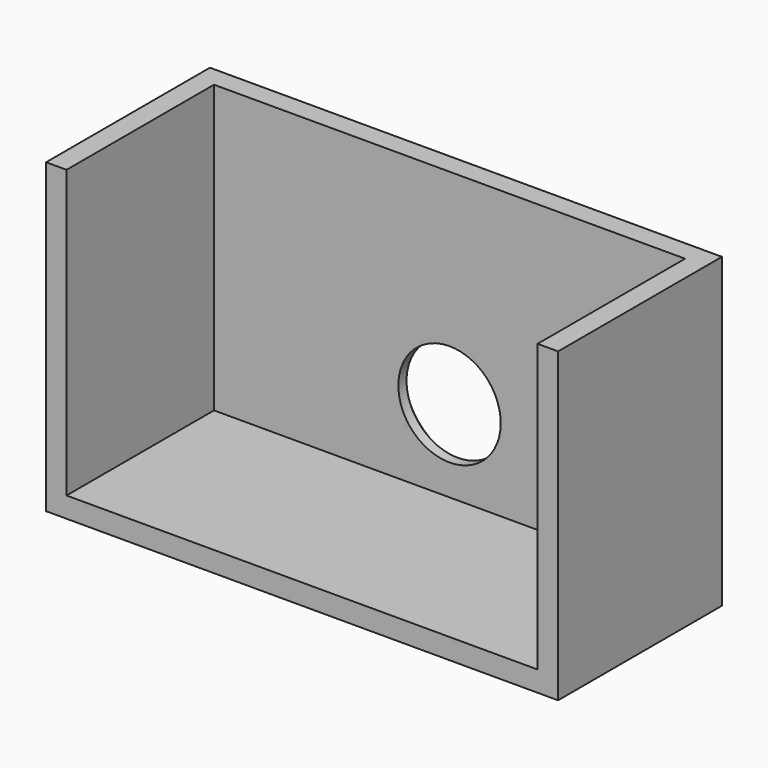
from build123d import *

# Parameters (mm, degrees)
F0_W           = 63.5
F0_H           = 38.1
F1_DEPTH       = 25.4
F2_T           = -2.54
F4_D           = 12.7
F4_CSINK_D     = 15.24
F4_CSINK_ANGLE = 90


with BuildPart() as f1:
    # F0 (on Front) → F1 (new body)
    with BuildSketch(Plane.XZ):
        with Locations((31.75, 19.05)):
            Rectangle(F0_W, F0_H)
    extrude(amount=F1_DEPTH)

    # F2
    f2_openings = [f1.faces().sort_by_distance(p)[0] for p in [
        (31.75, -25.4, 19.05),
        (31.75, -12.7, 38.1),
    ]]
    offset(amount=F2_T, openings=f2_openings)

    # F4 (through all)
    with Locations(Plane(origin=(0, 0, 0), x_dir=(-1, 0, 0), z_dir=(0, 1, 0))):
        with Locations((-31.75, 12.7)):
            CounterSinkHole(F4_D / 2, F4_CSINK_D / 2, counter_sink_angle=F4_CSINK_ANGLE)


solid = f1.part
